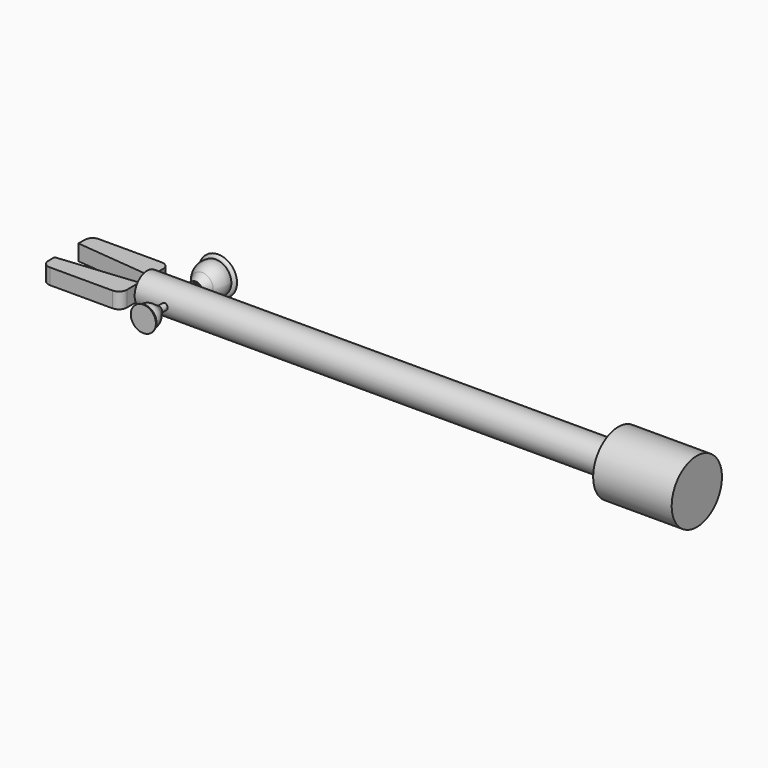
from build123d import *

# Parameters (mm, degrees)
SKETCH004_R  = 3
PAD002_DEPTH = 10
SKETCH006_R  = 2
PAD003_DEPTH = 10
PAD004_DEPTH = 10
FILLET_R     = 5
FILLET001_R  = 5
PAD005_DEPTH = 10
FILLET002_R  = 5
FILLET003_R  = 5
SKETCH002_R  = 20
PAD_DEPTH    = 50
SKETCH_R     = 10
PAD001_DEPTH = 300
SKETCH009_R  = 8.5
POCKET_DEPTH = 50


with BuildPart() as obj1:
    # Sketch003 → Revolution (revolve)
    with BuildSketch(Plane(origin=(-300, 45, 48), x_dir=(1, 0, 0), z_dir=(0, 0, 1))):
        with BuildLine():
            Line((0, 0), (4, 0))
            Line((4, 0), (7, 5))
            ThreePointArc((7, 5), (10.055792, 9.938646), (10, 15.745967))
            ThreePointArc((10, 15.745967), (11.414214, 16.331753), (12, 17.745967))
            Line((12, 17.745967), (0, 17.745967))
            Line((0, 17.745967), (0, 0))
        make_face()
    revolve(axis=Axis((-300, 45, 48), (0, 1, 0)))

    # Sketch004 → Pad002 (new body)
    with BuildSketch(Plane(origin=(-300, 45, 48), x_dir=(1, 0, 0), z_dir=(0, -1, 0))):
        Circle(SKETCH004_R)
    extrude(amount=PAD002_DEPTH)


with BuildPart() as obj2:
    # Sketch005 → Revolution001 (revolve)
    with BuildSketch(Plane(origin=(-300, 15, 48), x_dir=(-1, 0, 0), z_dir=(0, 0, 1))):
        with BuildLine():
            Line((0, 0), (2.6, 0))
            Line((2.6, 0), (4.6, 3.3))
            ThreePointArc((4.6, 3.3), (6.64064, 6.577473), (6.6, 10.438093))
            ThreePointArc((6.6, 10.438093), (7.589949, 10.848144), (8, 11.838093))
            Line((8, 11.838093), (0, 11.838093))
            Line((0, 11.838093), (0, 0))
        make_face()
    revolve(axis=Axis((-300, 15, 48), (0, -1, 0)))

    # Sketch006 → Pad003 (new body)
    with BuildSketch(Plane(origin=(-300, 15, 48), x_dir=(-1, 0, 0), z_dir=(0, 1, 0))):
        Circle(SKETCH006_R)
    extrude(amount=PAD003_DEPTH)


with BuildPart() as fillet001:
    # Sketch007 → Pad004 (new body)
    with BuildSketch(Plane(origin=(-320, 10, 43), x_dir=(1, 0, 0), z_dir=(0, 0, 1))):
        Polygon((-50, 10), (-50, 0), (0, 0), (0, 15), align=None)
    extrude(amount=PAD004_DEPTH)

    # Fillet
    fillet_edges = [fillet001.edges().sort_by_distance(p)[0] for p in [
        (-370, 10, 48),
    ]]
    fillet(fillet_edges, radius=FILLET_R)

    # Fillet001
    fillet001_edges = [fillet001.edges().sort_by_distance(p)[0] for p in [
        (-320, 10, 48),
    ]]
    fillet(fillet001_edges, radius=FILLET001_R)


with BuildPart() as fillet003:
    # Sketch008 → Pad005 (new body)
    with BuildSketch(Plane(origin=(-320, 49, 43), x_dir=(1, 0, 0), z_dir=(0, 0, 1))):
        Polygon((-50, -10), (-50, 0), (0, 0), (0, -15), align=None)
    extrude(amount=PAD005_DEPTH)

    # Fillet002
    fillet002_edges = [fillet003.edges().sort_by_distance(p)[0] for p in [
        (-370, 49, 48),
    ]]
    fillet(fillet002_edges, radius=FILLET002_R)

    # Fillet003
    fillet003_edges = [fillet003.edges().sort_by_distance(p)[0] for p in [
        (-320, 49, 48),
    ]]
    fillet(fillet003_edges, radius=FILLET003_R)


with BuildPart() as pocket:
    # Sketch002 → Pad (new body)
    with BuildSketch(Plane(origin=(31, 30, 48), x_dir=(0, 0, 1), z_dir=(-1, 0, 0))):
        Circle(SKETCH002_R)
    extrude(amount=PAD_DEPTH)

    # Sketch → Pad001 (new body)
    with BuildSketch(Plane(origin=(-19, 30, 48), x_dir=(0, 0, 1), z_dir=(-1, 0, 0))):
        Circle(SKETCH_R)
    extrude(amount=PAD001_DEPTH)

    # Sketch009 → Pocket (cut)
    with BuildSketch(Plane(origin=(-319, 30, 48), x_dir=(0, 0, 1), z_dir=(-1, 0, 0))):
        Circle(SKETCH009_R)
    extrude(amount=-POCKET_DEPTH, mode=Mode.SUBTRACT)


solid = Compound([obj1.part, obj2.part, fillet001.part, fillet003.part, pocket.part])
